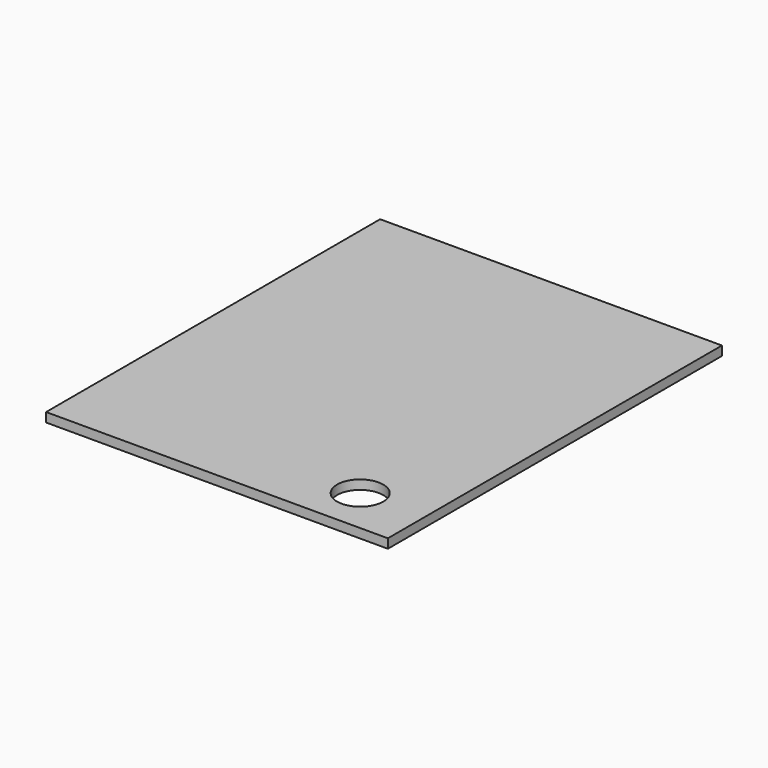
from build123d import *

# Parameters (mm, degrees)
PAD_DEPTH    = 10
SKETCH002_R  = 25
POCKET_DEPTH = 10.001


with BuildPart() as part:
    # Sketch → Pad (new body)
    with BuildSketch(Plane.XY):
        Polygon((0, 413.879036), (0, 452), (370, 452), (370, 0), (0, 0), align=None)
    extrude(amount=-PAD_DEPTH)

    # Sketch002 (on Face6 of Pad) → Pocket (cut, through all)
    with BuildSketch(Plane.XY):
        with Locations((300, 50)):
            Circle(SKETCH002_R)
    extrude(amount=-POCKET_DEPTH, mode=Mode.SUBTRACT)


solid = part.part
